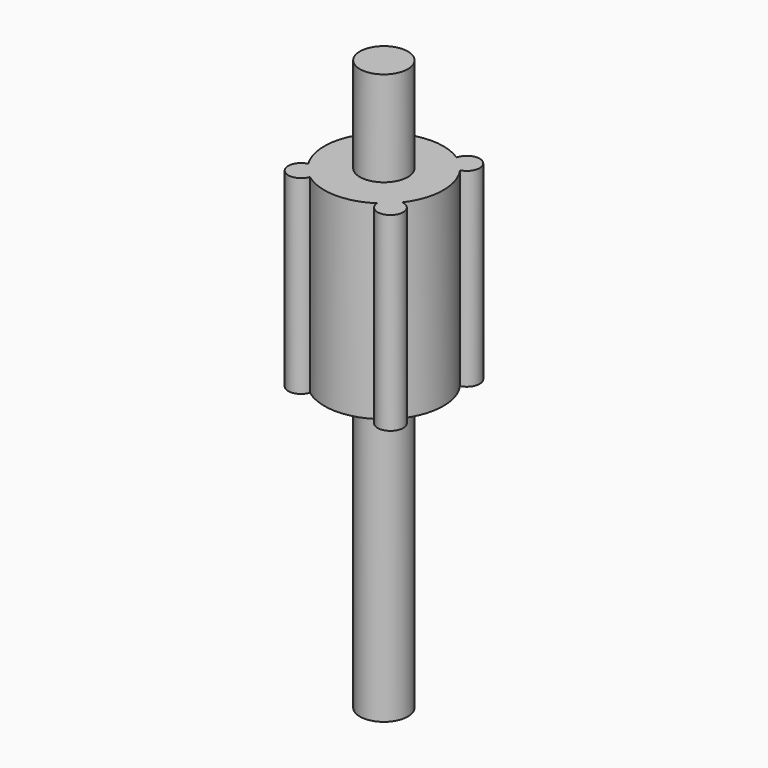
from build123d import *

# Parameters (mm, degrees)
F0_R     = 15.9266250138
F0_R_2   = 6.35
F1_DEPTH = 50.8
F2_R     = 3.4266006547
F3_DEPTH = 50.8
F7_R     = 6.4098114124
F8_DEPTH = 76.2


with BuildPart() as f1:
    # F0 (on Top) → F1 (new body)
    with BuildSketch(Plane.XY):
        Circle(F0_R)
        Circle(F0_R_2, mode=Mode.SUBTRACT)
    extrude(amount=F1_DEPTH)



with BuildPart() as f3:
    # F2 (on Top) → F3 (new body)
    with BuildSketch(Plane.XY):
        with Locations((-12.2786890715, 12.5171002001)):
            Circle(F2_R)
    extrude(amount=F3_DEPTH)


with BuildPart() as f4_1:
    # F4: copy of F3
    add(f3.part.moved(Location((24.45152, 0, 0))))


with BuildPart() as f5_1:
    # F5: copy of F4_1
    add(f4_1.part.moved(Location((0, -25.53886, 0))))


with BuildPart() as f6_1:
    # F6: copy of F5_1
    add(f5_1.part.moved(Location((-24.98095, 1.38116, 0))))


with BuildPart() as f1_1:
    add(f1.part)

    add(f3.part)  # F8 merges F3

    add(f4_1.part)  # F8 merges F4_1

    add(f5_1.part)  # F8 merges F5_1

    add(f6_1.part)  # F8 merges F6_1
    # F7 (on Top) → F8 (join, symmetric)
    with BuildSketch(Plane.XY):
        Circle(F7_R)
    extrude(amount=F8_DEPTH, both=True)


solid = f1_1.part
